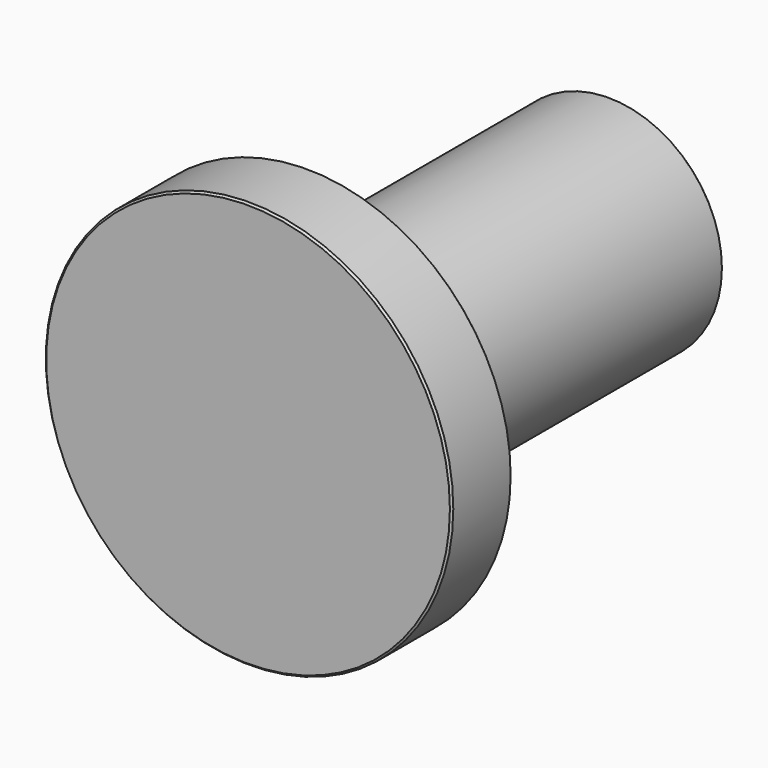
from build123d import *

# Parameters (mm, degrees)
F0_R     = 54
F0_R_2   = 30
F1_DEPTH = 20
F2_DEPTH = 100
F3_SIZE  = 0.5


with BuildPart() as f1:
    # F0 (on Front) → F1 (new body)
    with BuildSketch(Plane.XZ):
        Circle(F0_R)
        Circle(F0_R_2, mode=Mode.SUBTRACT)
        Circle(F0_R_2)
    extrude(amount=F1_DEPTH)

    # F0 (on Front) → F2 (join)
    with BuildSketch(Plane.XZ):
        Circle(F0_R_2)
    extrude(amount=-F2_DEPTH)

    # F3
    f3_edges = [f1.edges().sort_by_distance(p)[0] for p in [
        (-54, -20, 0),
        (54, -10, 0),
        (-54, 0, 0),
        (-30, 100, 0),
    ]]
    chamfer(f3_edges, length=F3_SIZE)


solid = f1.part
